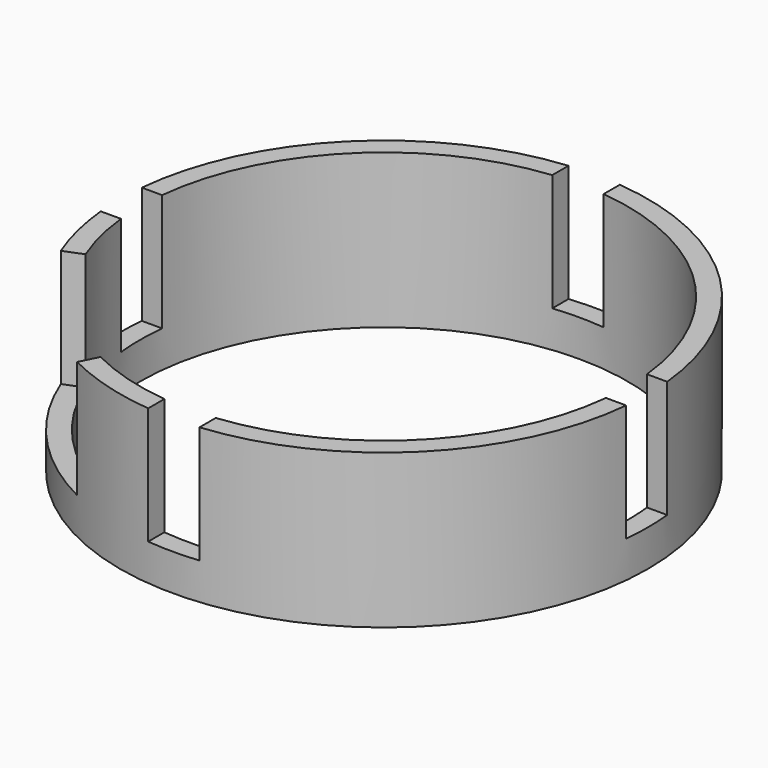
from build123d import *

# Parameters (mm, degrees)
F0_R     = 36
F0_R_2   = 33.25
F1_DEPTH = 21
F2_W     = 7
F2_H     = 11
F2_W_2   = 11
F2_H_2   = 7
F3_DEPTH = 16


with BuildPart() as f1:
    # F0 (on Top) → F1 (new body)
    with BuildSketch(Plane.XY):
        Circle(F0_R)
        Circle(F0_R_2, mode=Mode.SUBTRACT)
    extrude(amount=F1_DEPTH)

    # F2 (on face) → F3 (cut)
    with BuildSketch(Plane.XY.offset(21)):
        with Locations((0, 33.25)):
            Rectangle(F2_W, F2_H)
        with Locations((-33.25, 0)):
            Rectangle(F2_W_2, F2_H_2)
        with Locations((0, -33.25)):
            Rectangle(F2_W, F2_H)
        with Locations((33.25, 0)):
            Rectangle(F2_W_2, F2_H_2)
        Polygon((-24.265509, -48.562322), (0, 0), (-52.630056, -20.857418), align=None)
    extrude(amount=-F3_DEPTH, mode=Mode.SUBTRACT)


solid = f1.part
